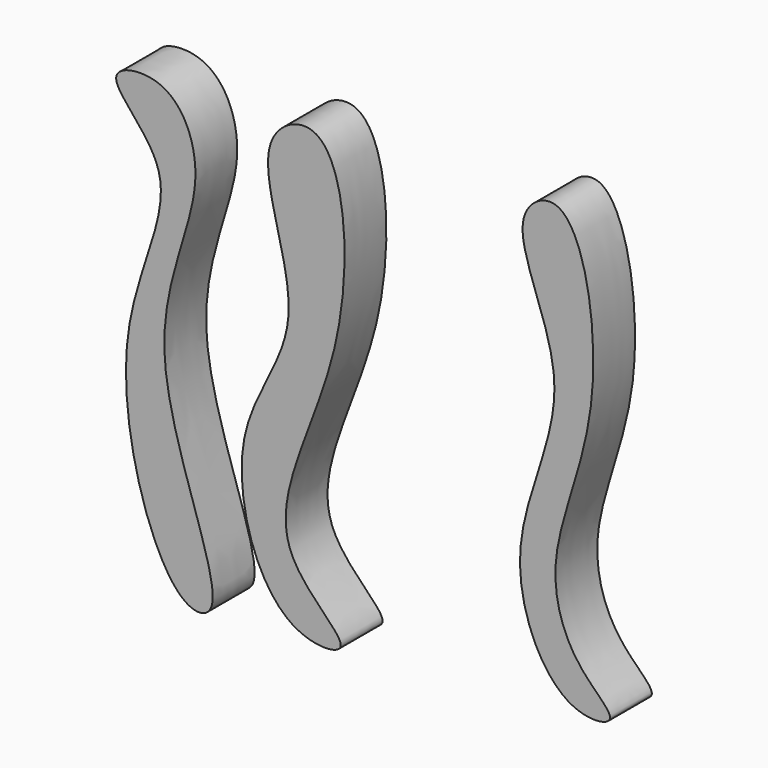
from build123d import *

# Parameters (mm, degrees)
F1_DEPTH = 12.7
F3_DEPTH = 12.7


with BuildPart() as f1:
    # F0 (on Front) → F1 (new body)
    with BuildSketch(Plane.XZ):
        with BuildLine():
            add(Edge.make_bspline(
                [(-24.8312652111, 58.1574551761), (-27.6651485525, 49.7013730258), (-12.4152127553, 20.446660337), (-38.1937202864, -4.3184960443), (-25.7563697446, -46.6534309571), (0.0633245124, -45.5327337416), (-31.941886308, -25.7683138176), (-3.061418623, 16.2218007178), (-7.6203490093, 71.1158108499), (-23.1559029973, 63.1566025668), (-24.8312652111, 58.1574551761)],
                knots=[0, 0, 0, 0, 0.1383893532, 0.2721084637, 0.4145236215, 0.4947191757, 0.6006087237, 0.7635960905, 0.9181856608, 1, 1, 1, 1], degree=3))
        make_face()
    extrude(amount=F1_DEPTH)


with BuildPart() as f1b:
    # F0 (on Front) → F1, piece 2 (new body)
    with BuildSketch(Plane.XZ):
        with BuildLine():
            add(Edge.make_bspline(
                [(36.5934558213, 62.0781853795), (34.7920141055, 54.6115512062), (52.6394905236, 28.4652504496), (28.7297460499, -7.8204346875), (44.0430833905, -41.0738132271), (62.0201299499, -39.132546006), (47.687139647, -29.1513189046), (40.6601105842, -6.5917770963), (57.9410540173, 25.5324188499), (49.6745754367, 74.0577900433), (37.5798435338, 66.1665753273), (36.5934558213, 62.0781853795)],
                knots=[0, 0, 0, 0, 0.1289813626, 0.2741299132, 0.3990111778, 0.4672829298, 0.5426805081, 0.6480261276, 0.7887871631, 0.9293756606, 1, 1, 1, 1], degree=3))
        make_face()
    extrude(amount=F1_DEPTH)


with BuildPart() as f3:
    # F2 (on Front) → F3 (new body)
    with BuildSketch(Plane.XZ):
        with BuildLine():
            add(Edge.make_bspline(
                [(-51.8407300115, 62.0781853795), (-46.0615363721, 59.7694702824), (-38.0559489073, 41.8554255452), (-60.6049514853, 6.5962079636), (-32.251696486, -47.0072228036), (-50.9046456544, -49.5400382291), (-68.5181087011, 6.9367935129), (-42.4328519097, 42.621281142), (-69.2846672105, 61.4418386926), (-56.1034830049, 63.7811015311), (-51.8407300115, 62.0781853795)],
                knots=[0, 0, 0, 0, 0.1056552831, 0.2600711399, 0.4301983876, 0.491658378, 0.6649692552, 0.817786692, 0.9220683018, 1, 1, 1, 1], degree=3))
        make_face()
    extrude(amount=F3_DEPTH)


solid = Compound([f1.part, f1b.part, f3.part])
